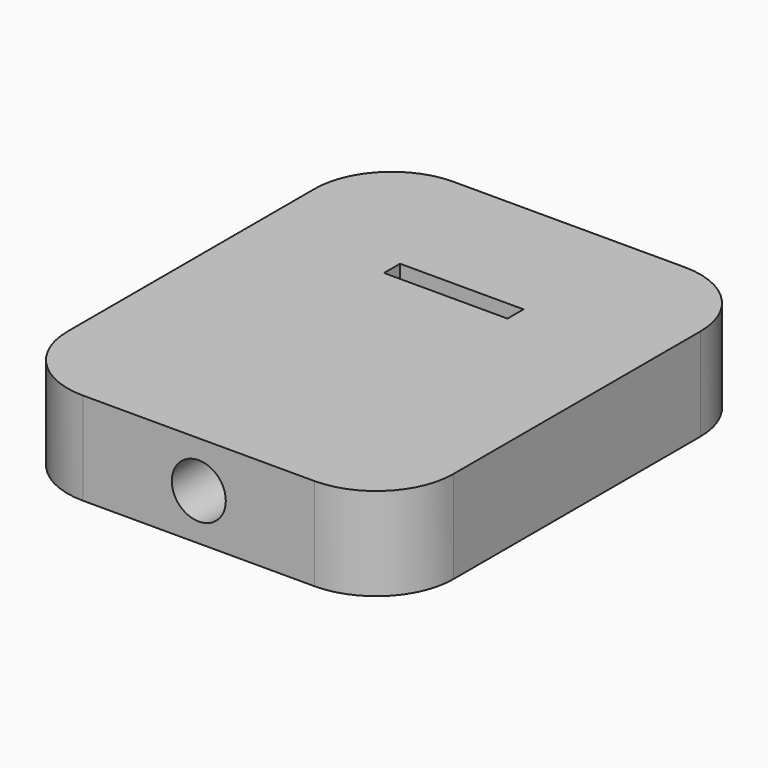
from build123d import *

# Parameters (mm, degrees)
F1_DEPTH = 15.24
F2_R     = 4.445
F3_DEPTH = 50.8
F4_W     = 20.32
F4_H     = 3.302
F5_DEPTH = 15.24


with BuildPart() as f1:
    # F0 (on Top) → F1 (new body)
    with BuildSketch(Plane.XY):
        with BuildLine():
            ThreePointArc((31.75, 25.4), (28.030256, 34.380256), (19.05, 38.1))
            Line((19.05, 38.1), (-19.05, 38.1))
            ThreePointArc((-19.05, 38.1), (-28.030256, 34.380256), (-31.75, 25.4))
            Line((-31.75, 25.4), (-31.75, -25.4))
            ThreePointArc((-31.75, -25.4), (-28.030256, -34.380256), (-19.05, -38.1))
            Line((-19.05, -38.1), (19.05, -38.1))
            ThreePointArc((19.05, -38.1), (28.030256, -34.380256), (31.75, -25.4))
            Line((31.75, -25.4), (31.75, 25.4))
        make_face()
    extrude(amount=F1_DEPTH)

    # F2 (on face) → F3 (cut)
    with BuildSketch(Plane.XZ.offset(38.1)):
        with Locations((0, 7.62)):
            Circle(F2_R)
    extrude(amount=-F3_DEPTH, mode=Mode.SUBTRACT)

    # F4 (on face) → F5 (cut)
    with BuildSketch(Plane.XY.offset(15.24)):
        with Locations((0, 14.351)):
            Rectangle(F4_W, F4_H)
    extrude(amount=-F5_DEPTH, mode=Mode.SUBTRACT)


solid = f1.part
